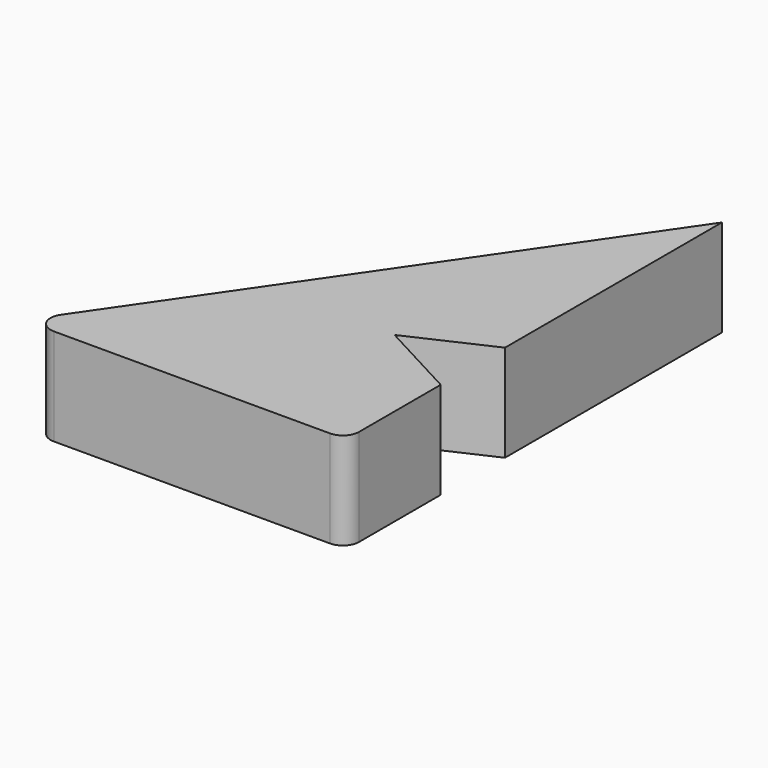
from build123d import *

# Parameters (mm, degrees)
F1_DEPTH = 30
F2_R     = 5


with BuildPart() as f1:
    # F0 (on Top) → F1 (new body)
    with BuildSketch(Plane.XY):
        Polygon((50, 95.418446), (-50, -50), (50, -50), (50, -13.400296), (25, 0), (50, 11.463741), (50, 50), align=None)
    extrude(amount=F1_DEPTH)

    # F2
    f2_edges = [f1.edges().sort_by_distance(p)[0] for p in [
        (50, -50, 15),
        (-50, -50, 15),
    ]]
    fillet(f2_edges, radius=F2_R)


solid = f1.part
